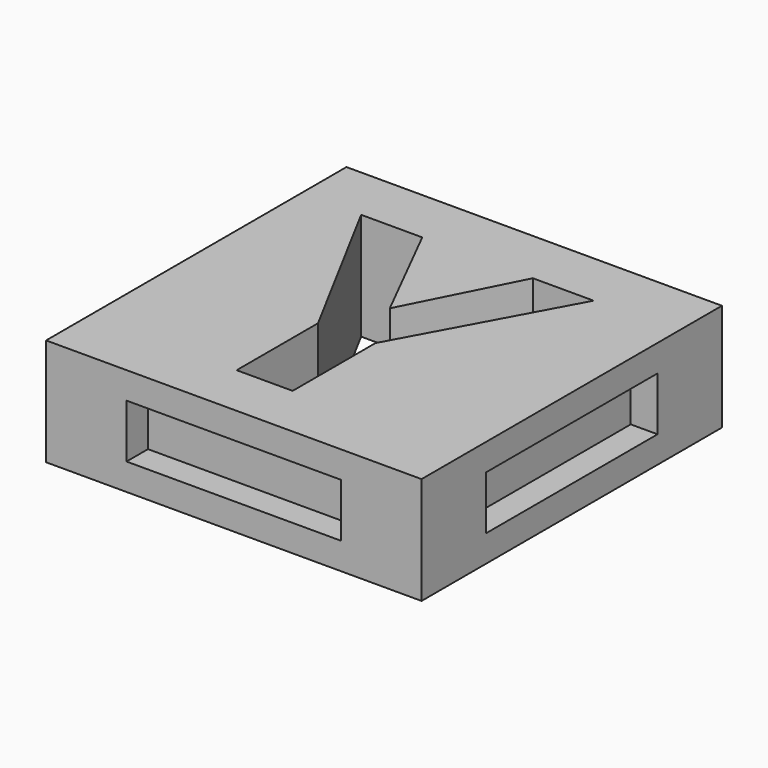
from build123d import *

# Parameters (mm, degrees)
F0_W     = 35.56
F0_H     = 35.56
F1_DEPTH = 5.08
F2_W     = 19.812
F2_H     = 4.572
F3_DEPTH = 2.54
F4_W     = 19.812
F4_H     = 4.572
F5_DEPTH = 2.54
F6_W     = 20.32
F6_H     = 5.08
F7_DEPTH = 2.54
F8_W     = 20.32
F8_H     = 5.08
F9_DEPTH = 2.54


with BuildPart() as f1:
    # F0 (on Top) → F1 (new body, symmetric)
    with BuildSketch(Plane.XY):
        Rectangle(F0_W, F0_H)
        Polygon((-6.3637803819, 12.4850260417), (-1.1437717014, 2.1166666667), (4.1093098958, 12.4850260417), (9.8639973958, 12.4850260417), (1.5075737847, -2.8993923611), (1.5075737847, -12.7), (-3.7951171875, -12.7), (-3.7951171875, -3.0702690972), (-12.1515407986, 12.4850260417), align=None, mode=Mode.SUBTRACT)
    extrude(amount=F1_DEPTH, both=True)

    # F2 (on face) → F3 (join)
    with BuildSketch(Plane(origin=(0, 17.78, 0), x_dir=(-1, 0, 0), z_dir=(0, 1, 0))):
        Rectangle(F2_W, F2_H)
    extrude(amount=F3_DEPTH)

    # F4 (on face) → F5 (join)
    with BuildSketch(Plane(origin=(-17.78, 0, 0), x_dir=(0, -1, 0), z_dir=(-1, 0, 0))):
        Rectangle(F4_W, F4_H)
    extrude(amount=F5_DEPTH)

    # F6 (on face) → F7 (cut)
    with BuildSketch(Plane.XZ.offset(17.78)):
        Rectangle(F6_W, F6_H)
    extrude(amount=-F7_DEPTH, mode=Mode.SUBTRACT)

    # F8 (on face) → F9 (cut)
    with BuildSketch(Plane.YZ.offset(17.78)):
        Rectangle(F8_W, F8_H)
    extrude(amount=-F9_DEPTH, mode=Mode.SUBTRACT)


solid = f1.part
